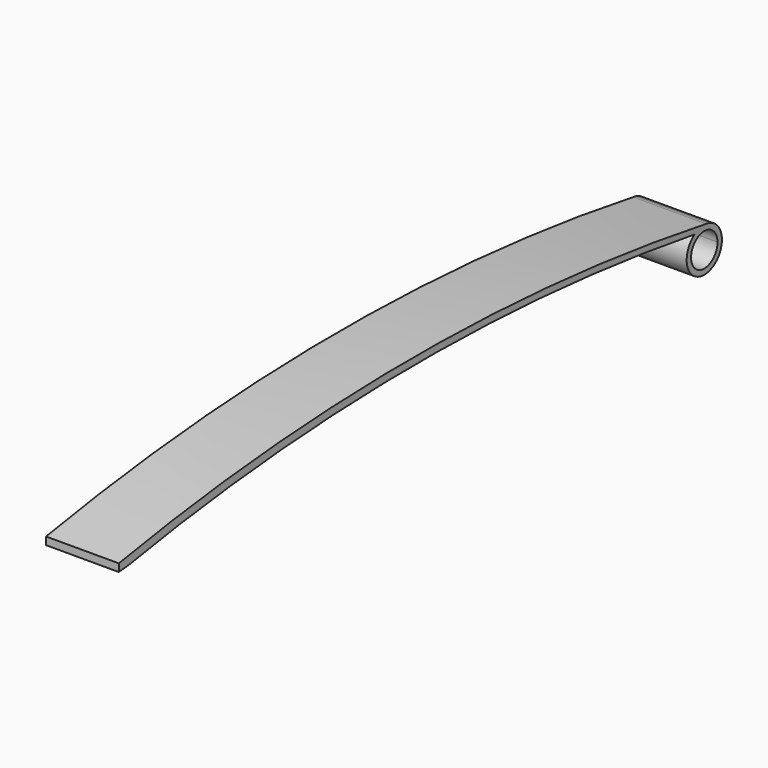
from build123d import *

# Parameters (mm, degrees)
F1_DEPTH = 13.2


with BuildPart() as f1:
    # F0 (on Right) → F1 (new body)
    with BuildSketch(Plane.YZ):
        with BuildLine():
            ThreePointArc((63.824689, 3.356788), (64.089665, -3.514345), (70, 0))
            ThreePointArc((70, 0), (69.14794, 2.467888), (66.954764, 3.884382))
            ThreePointArc((66.954764, 3.884382), (66.679281, 3.932074), (66.403765, 3.97957))
            ThreePointArc((66.403765, 3.97957), (65.061087, 3.888244), (63.824689, 3.356788))
        make_face()
        with BuildLine():
            ThreePointArc((69, 0), (63.87868, -2.12132), (66, 3))
            ThreePointArc((66, 3), (68.12132, 2.12132), (69, 0))
        make_face(mode=Mode.SUBTRACT)
        with BuildLine():
            ThreePointArc((66.403765, 3.97957), (66.679281, 3.932074), (66.954764, 3.884382))
            ThreePointArc((66.954764, 3.884382), (66.68093, 3.941616), (66.403765, 3.97957))
        make_face()
        with BuildLine():
            ThreePointArc((-64.71288, 2.709856), (-0.470808, 8.340736), (63.824689, 3.356788))
            ThreePointArc((63.824689, 3.356788), (65.061087, 3.888244), (66.403765, 3.97957))
            ThreePointArc((66.403765, 3.97957), (-0.23707, 9.650483), (-66.871424, 3.903924))
            Line((-66.871424, 3.903924), (-66.871424, 2.512486))
            Line((-66.871424, 2.512486), (-64.71288, 2.709856))
        make_face()
    extrude(amount=F1_DEPTH)


solid = f1.part
